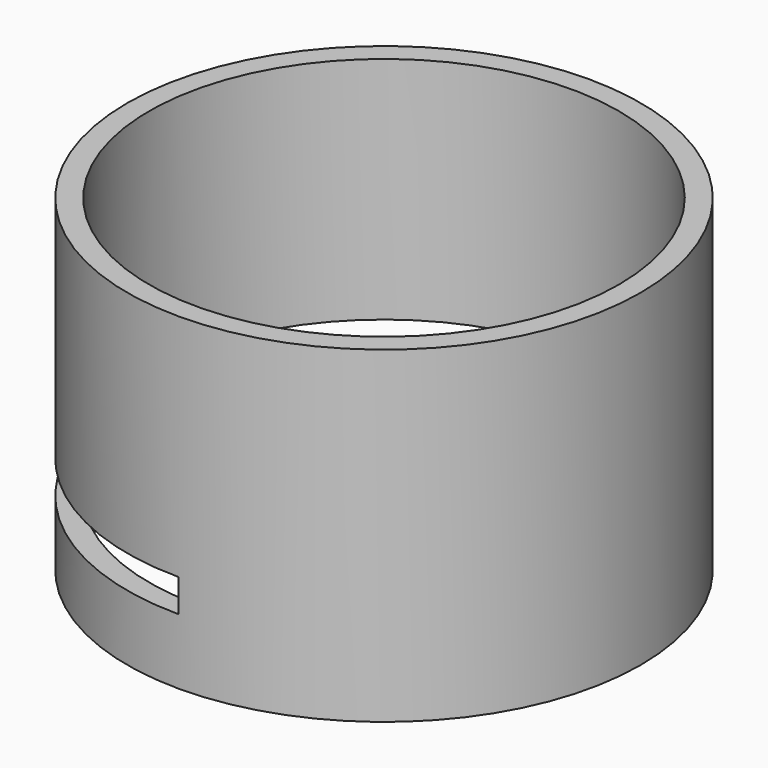
from build123d import *

# Parameters (mm, degrees)
F0_R     = 23.5
F0_R_2   = 21.5
F1_DEPTH = 30
F2_W     = 47
F2_H     = 3
F3_DEPTH = 23.501
F4_W     = 2
F4_H     = 2
F5_ANGLE = 180


with BuildPart() as f1:
    # F0 (on Top) → F1 (new body)
    with BuildSketch(Plane.XY):
        Circle(F0_R)
        Circle(F0_R_2, mode=Mode.SUBTRACT)
    extrude(amount=F1_DEPTH)

    # F2 (on Right) → F3 (cut, through all)
    with BuildSketch(Plane.YZ):
        with Locations((0, 7.5)):
            Rectangle(F2_W, F2_H)
    extrude(amount=-F3_DEPTH, mode=Mode.SUBTRACT)

    # F4 (on Front) → F5 (revolve, symmetric)
    with BuildSketch(Plane.XZ) as f5_sk:
        with Locations((20.5, 10)):
            Rectangle(F4_W, F4_H)
        with Locations((20.5, 5)):
            Rectangle(F4_W, F4_H)
    revolve(axis=Axis((0, 0, 9.00836), (0, 0, 1)), revolution_arc=F5_ANGLE / 2)
    revolve(f5_sk.sketch, axis=Axis((0, 0, 9.00836), (0, 0, -1)), revolution_arc=F5_ANGLE / 2)


solid = f1.part
